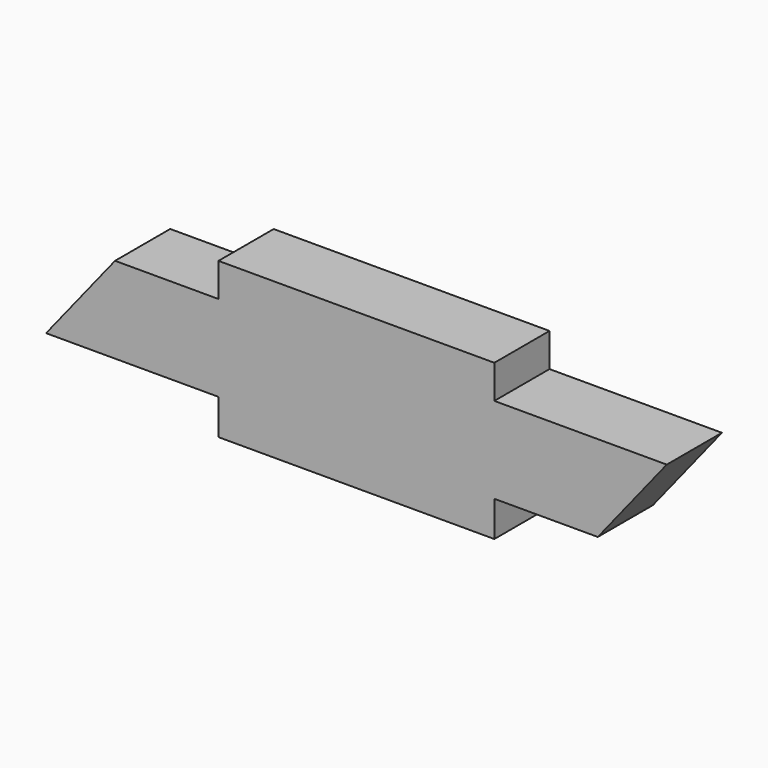
from build123d import *

# Parameters (mm, degrees)
F1_DEPTH = 12.7


with BuildPart() as f1:
    # F0 (on Front) → F1 (new body)
    with BuildSketch(Plane.XZ):
        Polygon((25.4, 14.289607), (-25.4, 14.289607), (-25.4, 8.105076), (-25.4, -7.757219), (-25.4, -14.289607), (25.4, -14.289607), (25.4, -7.757219), (25.4, 8.105076), align=None)
        Polygon((-25.4, -7.757219), (-25.4, 8.105076), (-44.45, 8.105076), (-57.15, -7.757219), align=None)
        Polygon((57.15, 8.105076), (25.4, 8.105076), (25.4, -7.757219), (44.45, -7.757219), align=None)
    extrude(amount=F1_DEPTH)


solid = f1.part
